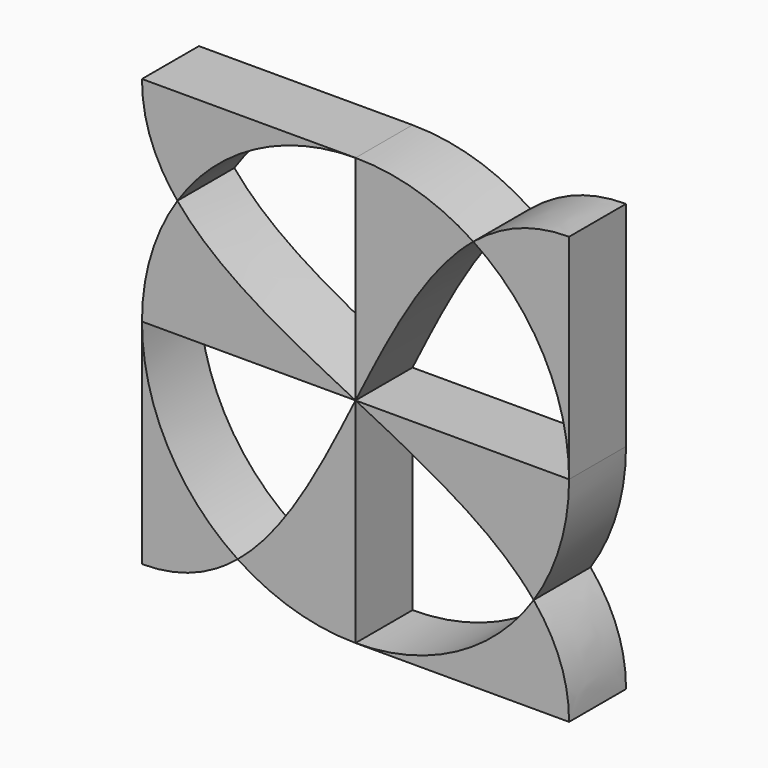
from build123d import *

# Parameters (mm, degrees)
F1_DEPTH = 25.4


with BuildPart() as f1:
    # F0 (on Front) → F1 (new body)
    with BuildSketch(Plane.XZ):
        with BuildLine():
            ThreePointArc((63.5541387067, -42.0394035787), (36.0765675148, -67.1187103299), (0, -76.2))
            Line((0, -76.2), (76.2, -76.2))
            add(Edge.make_bspline(
                [(63.5541387067, -42.0394035787), (71.4204258855, -51.6007690119), (76.2, -62.7054909773), (76.2, -76.2)],
                knots=[177.3579115508, 177.3579115508, 177.3579115508, 177.3579115508, 215.5261469057, 215.5261469057, 215.5261469057, 215.5261469057], degree=3))
        make_face()
    extrude(amount=F1_DEPTH)


with BuildPart() as f1b:
    # F0 (on Front) → F1, piece 2 (new body)
    with BuildSketch(Plane.XZ):
        with BuildLine():
            Line((0, 76.2), (-76.2, 76.2))
            add(Edge.make_bspline(
                [(-76.2, 76.2), (-76.2, 62.7054909773), (-71.4204258855, 51.6007690119), (-63.5541387067, 42.0394035787)],
                knots=[0, 0, 0, 0, 38.1682353548, 38.1682353548, 38.1682353548, 38.1682353548], degree=3))
            ThreePointArc((-63.5541387067, 42.0394035787), (-36.0765675148, 67.1187103299), (0, 76.2))
        make_face()
    extrude(amount=F1_DEPTH)


with BuildPart() as f1c:
    # F0 (on Front) → F1, piece 3 (new body)
    with BuildSketch(Plane.XZ):
        with BuildLine():
            Line((-76.2, 0), (-76.2, -76.2))
            add(Edge.make_bspline(
                [(-76.2, -76.2), (-62.7054909773, -76.2), (-51.6007690119, -71.4204258855), (-42.0394035787, -63.5541387067)],
                knots=[0, 0, 0, 0, 38.1682353548, 38.1682353548, 38.1682353548, 38.1682353548], degree=3))
            ThreePointArc((-42.0394035787, -63.5541387067), (-67.1187103299, -36.0765675148), (-76.2, 0))
        make_face()
    extrude(amount=F1_DEPTH)


with BuildPart() as f1d:
    # F0 (on Front) → F1, piece 4 (new body)
    with BuildSketch(Plane.XZ):
        with BuildLine():
            ThreePointArc((42.0394035787, 63.5541387067), (67.1187103299, 36.0765675148), (76.2, 0))
            Line((76.2, 0), (76.2, 76.2))
            add(Edge.make_bspline(
                [(42.0394035787, 63.5541387067), (51.6007690119, 71.4204258855), (62.7054909773, 76.2), (76.2, 76.2)],
                knots=[177.3579115508, 177.3579115508, 177.3579115508, 177.3579115508, 215.5261469057, 215.5261469057, 215.5261469057, 215.5261469057], degree=3))
        make_face()
    extrude(amount=F1_DEPTH)


with BuildPart() as f1e:
    # F0 (on Front) → F1, piece 5 (new body)
    with BuildSketch(Plane.XZ):
        with BuildLine():
            ThreePointArc((-42.0394035787, -63.5541387067), (-21.9501096871, -72.9700807504), (0, -76.2))
            Line((0, -76.2), (0, 0))
            add(Edge.make_bspline(
                [(-42.0394035787, -63.5541387067), (-24.6054909773, -49.2109819547), (-12.3027454887, -24.6054909773), (0, 0)],
                knots=[38.1682353548, 38.1682353548, 38.1682353548, 38.1682353548, 107.7630734528, 107.7630734528, 107.7630734528, 107.7630734528], degree=3))
        make_face()
    extrude(amount=F1_DEPTH)


with BuildPart() as f1f:
    # F0 (on Front) → F1, piece 6 (new body)
    with BuildSketch(Plane.XZ):
        with BuildLine():
            Line((0, 76.2), (0, 0))
            add(Edge.make_bspline(
                [(0, 0), (12.3027454887, 24.6054909773), (24.6054909773, 49.2109819547), (42.0394035787, 63.5541387067)],
                knots=[107.7630734528, 107.7630734528, 107.7630734528, 107.7630734528, 177.3579115508, 177.3579115508, 177.3579115508, 177.3579115508], degree=3))
            ThreePointArc((42.0394035787, 63.5541387067), (21.9501096871, 72.9700807504), (0, 76.2))
        make_face()
    extrude(amount=F1_DEPTH)


with BuildPart() as f1g:
    # F0 (on Front) → F1, piece 7 (new body)
    with BuildSketch(Plane.XZ):
        with BuildLine():
            ThreePointArc((-63.5541387067, 42.0394035787), (-72.9700807504, 21.9501096871), (-76.2, 0))
            Line((-76.2, 0), (0, 0))
            add(Edge.make_bspline(
                [(-63.5541387067, 42.0394035787), (-49.2109819547, 24.6054909773), (-24.6054909773, 12.3027454887), (0, 0)],
                knots=[38.1682353548, 38.1682353548, 38.1682353548, 38.1682353548, 107.7630734528, 107.7630734528, 107.7630734528, 107.7630734528], degree=3))
        make_face()
    extrude(amount=F1_DEPTH)


with BuildPart() as f1h:
    # F0 (on Front) → F1, piece 8 (new body)
    with BuildSketch(Plane.XZ):
        with BuildLine():
            add(Edge.make_bspline(
                [(0, 0), (24.6054909773, -12.3027454887), (49.2109819547, -24.6054909773), (63.5541387067, -42.0394035787)],
                knots=[107.7630734528, 107.7630734528, 107.7630734528, 107.7630734528, 177.3579115508, 177.3579115508, 177.3579115508, 177.3579115508], degree=3))
            ThreePointArc((63.5541387067, -42.0394035787), (72.9700807504, -21.9501096871), (76.2, 0))
            Line((76.2, 0), (0, 0))
        make_face()
    extrude(amount=F1_DEPTH)


solid = Compound([f1.part, f1b.part, f1c.part, f1d.part, f1e.part, f1f.part, f1g.part, f1h.part])
